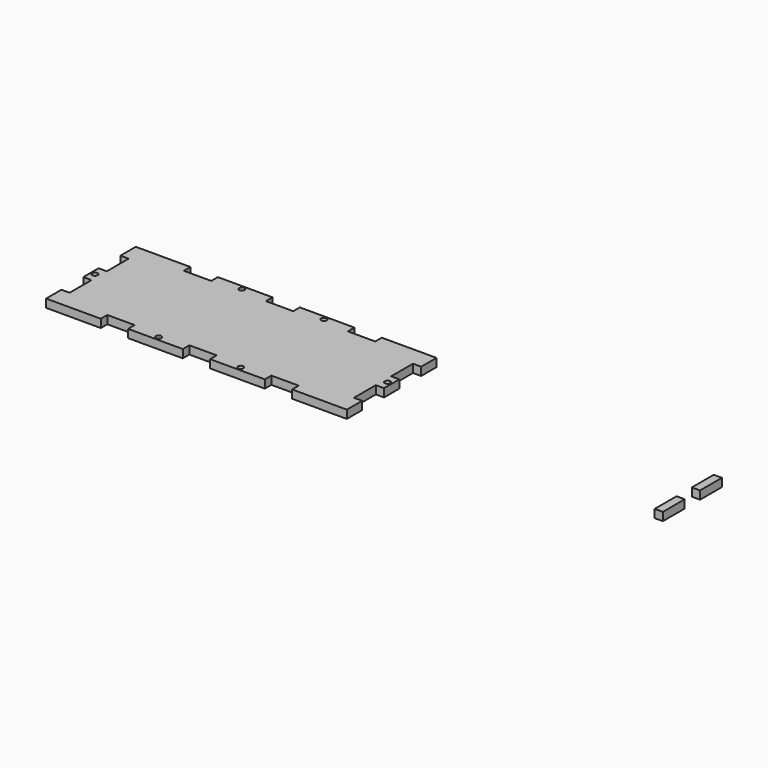
from build123d import *

# Parameters (mm, degrees)
F0_R     = 1
F0_W     = 3
F0_H     = 10
F1_DEPTH = 3


with BuildPart() as f1:
    # F0 (on Top) → F1 (new body)
    with BuildSketch(Plane.XY):
        Polygon((-60, 27.457521), (-80, 27.457521), (-80, 20.457521), (-77, 20.457521), (-77, 10.457521), (-80, 10.457521), (-80, 3.457521), (-77, 3.457521), (-77, -6.542479), (-80, -6.542479), (-80, -13.542479), (-60, -13.542479), (-60, -10.554124), (-50, -10.554124), (-50, -13.542479), (-30, -13.542479), (-30, -10.542479), (-20, -10.542479), (-20, -13.542479), (0, -13.542479), (0, -10.542479), (10, -10.542479), (10, -13.542479), (30, -13.542479), (30, -6.542479), (27, -6.542479), (27, 3.457521), (30, 3.457521), (30, 10.457521), (27, 10.457521), (27, 20.457521), (30, 20.457521), (30, 27.457521), (10, 27.457521), (10, 24.457521), (0, 24.457521), (0, 27.457521), (-20, 27.457521), (-20, 24.457521), (-30, 24.457521), (-30, 27.457521), (-50, 27.457521), (-50, 24.445876), (-60, 24.445876), align=None)
        with Locations((-40, -12.048301)):
            Circle(F0_R, mode=Mode.SUBTRACT)
        with Locations((-10, -12.042479)):
            Circle(F0_R, mode=Mode.SUBTRACT)
        with Locations((-78.5, 6.957521)):
            Circle(F0_R, mode=Mode.SUBTRACT)
        with Locations((28.5, 6.957521)):
            Circle(F0_R, mode=Mode.SUBTRACT)
        with Locations((-40, 25.951699)):
            Circle(F0_R, mode=Mode.SUBTRACT)
        with Locations((-10, 25.957521)):
            Circle(F0_R, mode=Mode.SUBTRACT)
        with Locations((138.5, -1.542479)):
            Rectangle(F0_W, F0_H)
        with Locations((138.5, 15.457521)):
            Rectangle(F0_W, F0_H)
    extrude(amount=F1_DEPTH)


solid = f1.part
